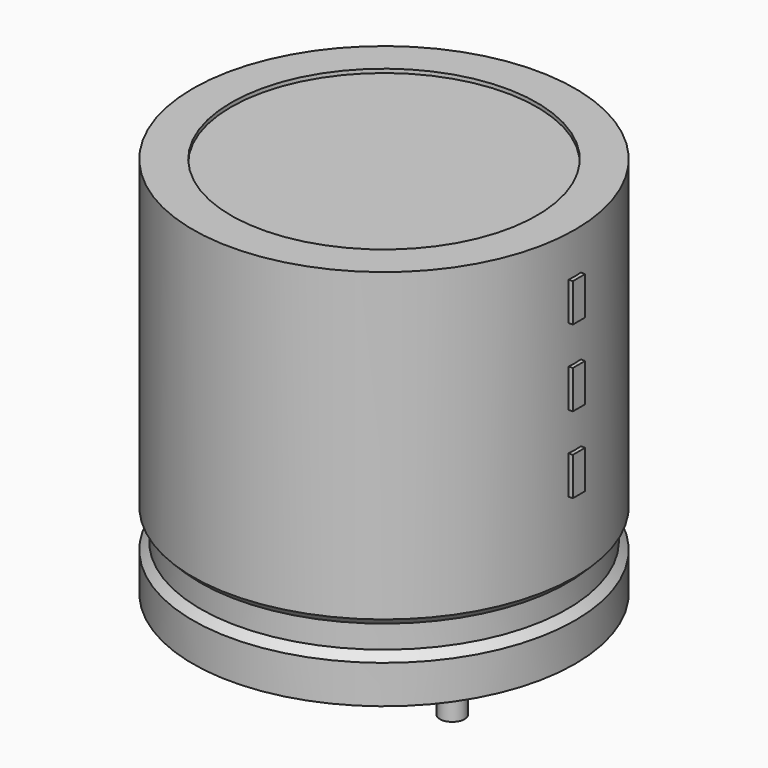
from build123d import *

# Parameters (mm, degrees)
SKETCH002_W  = 6.44
SKETCH002_H  = 13.72
SKETCH003_R  = 0.45
PAD_DEPTH    = 4.4
SKETCH004_W  = 0.56
SKETCH004_H  = 1.4
PAD001_DEPTH = 7.14


with BuildPart() as revolution:
    # Sketch → Revolution (revolve)
    with BuildSketch(Plane.XZ):
        Polygon((-4.5, 0.1), (-4.5, 1.5), (-4.22, 1.78), (-4.22, 2.62), (-4.5, 2.9), (-4.5, 14.1), (-3.1, 14.1), (-3.1, 0.1), align=None)
    revolve(axis=Axis((2.5, 0, 7.548619), (0, 0, -1)))


with BuildPart() as revolution001:
    # Sketch002 → Revolution001 (revolve)
    with BuildSketch(Plane.XZ):
        with Locations((-0.72, 7.1)):
            Rectangle(SKETCH002_W, SKETCH002_H)
    revolve(axis=Axis((2.5, 0, 4.680116), (0, 0, -1)))


with BuildPart() as pad:
    # Sketch003 → Pad (new body)
    with BuildSketch(Plane.XY.offset(1.4)):
        Circle(SKETCH003_R)
        with Locations((5, 0)):
            Circle(SKETCH003_R)
    extrude(amount=-PAD_DEPTH)


with BuildPart() as pad001:
    # Sketch004 → Pad001 (new body)
    with BuildSketch(Plane.YZ.offset(2.5)):
        with Locations((0, 6.3)):
            Rectangle(SKETCH004_W, SKETCH004_H)
        with Locations((0, 9.1)):
            Rectangle(SKETCH004_W, SKETCH004_H)
        with Locations((0, 11.9)):
            Rectangle(SKETCH004_W, SKETCH004_H)
    extrude(amount=PAD001_DEPTH)


solid = Compound([revolution.part, revolution001.part, pad.part, pad001.part])
